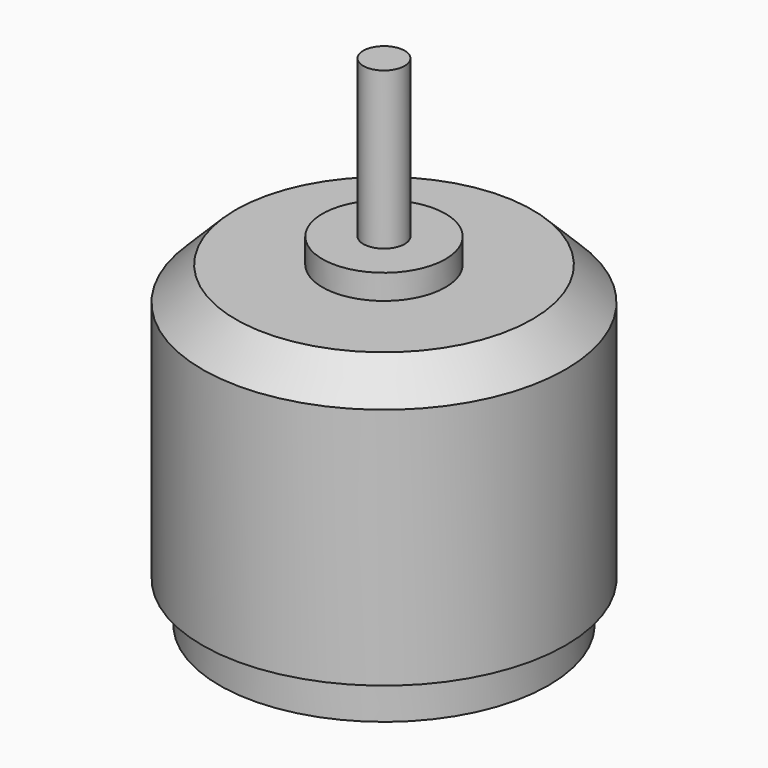
from build123d import *

# Parameters (mm, degrees)
SKETCH_R     = 13.8557
PAD_DEPTH    = 18.3515
SKETCH001_R  = 12.55395
PAD001_DEPTH = 3.1115
SKETCH002_R  = 13.8557
PAD002_DEPTH = 2.7178
CHAMFER_SIZE = 2.54
SKETCH003_R  = 4.69265
PAD003_DEPTH = 1.8923
SKETCH004_R  = 1.57734
PAD004_DEPTH = 11.9634
SKETCH005_R  = 1.27
POCKET_DEPTH = 3.175
SKETCH006_R  = 1.5875
PAD005_DEPTH = 1.2446


with BuildPart() as part:
    # Sketch → Pad (new body)
    with BuildSketch(Plane.XY):
        Circle(SKETCH_R)
    extrude(amount=PAD_DEPTH)

    # Sketch001 → Pad001 (new body)
    with BuildSketch(Plane(origin=(0, 0, 0), x_dir=(1, 0, 0), z_dir=(0, 0, -1))):
        Circle(SKETCH001_R)
    extrude(amount=PAD001_DEPTH)

    # Sketch002 → Pad002 (new body)
    with BuildSketch(Plane.XY.offset(18.3515)):
        Circle(SKETCH002_R)
    extrude(amount=PAD002_DEPTH)

    # Chamfer
    chamfer_edges = [part.edges().sort_by_distance(p)[0] for p in [
        (-13.8557, 0, 21.0693),
    ]]
    chamfer(chamfer_edges, length=CHAMFER_SIZE)

    # Sketch003 → Pad003 (new body)
    with BuildSketch(Plane.XY.offset(21.0693)):
        Circle(SKETCH003_R)
    extrude(amount=PAD003_DEPTH)

    # Sketch004 → Pad004 (new body)
    with BuildSketch(Plane.XY.offset(22.9616)):
        Circle(SKETCH004_R)
    extrude(amount=PAD004_DEPTH)

    # Sketch005 → Pocket (cut)
    with BuildSketch(Plane(origin=(0, 0, -3.1115), x_dir=(1, 0, 0), z_dir=(0, 0, -1))):
        with Locations((6.73354, 0)):
            Circle(SKETCH005_R)
        with Locations((-6.73354, 0)):
            Circle(SKETCH005_R)
        with Locations((0, 9.525)):
            Circle(SKETCH005_R)
        with Locations((0, -9.525)):
            Circle(SKETCH005_R)
    extrude(amount=-POCKET_DEPTH, mode=Mode.SUBTRACT)

    # Sketch006 → Pad005 (new body)
    with BuildSketch(Plane(origin=(0, 0, -3.1115), x_dir=(1, 0, 0), z_dir=(0, 0, -1))):
        Circle(SKETCH006_R)
    extrude(amount=PAD005_DEPTH)


solid = part.part
